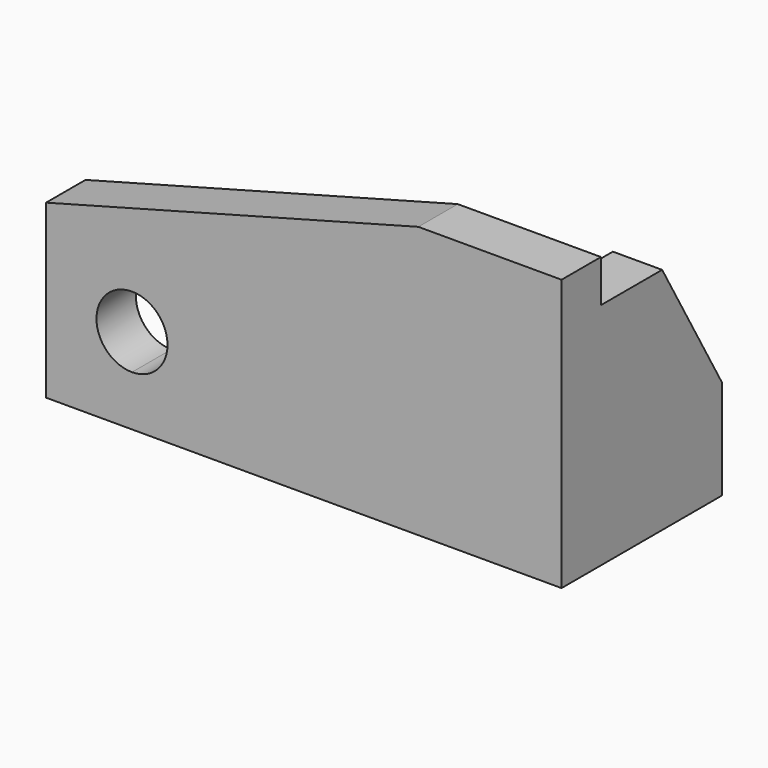
from build123d import *

# Parameters (mm, degrees)
F1_DEPTH = 10.922
F0_W     = 10.922
F0_H     = 33.528
F2_DEPTH = 22.098
F4_DEPTH = 10.922
F5_W     = 10.922
F5_H     = 60.198
F6_DEPTH = 10.922


with BuildPart() as f1:
    # F0 (on Top) → F1 (new body)
    with BuildSketch(Plane.XY):
        Polygon((-20.828, 0), (0, 0), (0, 33.528), (-52.578, 0), align=None)
    extrude(amount=F1_DEPTH)

    # F0 (on Top) → F2 (join)
    with BuildSketch(Plane.XY):
        with Locations((5.461, 16.764)):
            Rectangle(F0_W, F0_H)
    extrude(amount=F2_DEPTH)

    # F3 (on Right) → F4 (join)
    with BuildSketch(Plane.YZ):
        Polygon((0, 50.8), (0, 22.098), (33.528, 22.098), (16.956893, 50.8), align=None)
    extrude(amount=F4_DEPTH)

    # F5 (on Front) → F6 (join)
    with BuildSketch(Plane.XZ):
        with Locations((5.461, 30.099)):
            Rectangle(F5_W, F5_H)
        Polygon((-84.328, 0), (0, 0), (0, 60.198), (-20.828, 60.198), (-103.378, 38.078794), (-103.378, 0), align=None)
        with BuildLine():
            ThreePointArc((-76.454, 19.05), (-78.760241, 13.482241), (-84.328, 11.176))
            ThreePointArc((-84.328, 11.176), (-89.895759, 24.617759), (-76.454, 19.05))
        make_face(mode=Mode.SUBTRACT)
    extrude(amount=F6_DEPTH)


solid = f1.part
